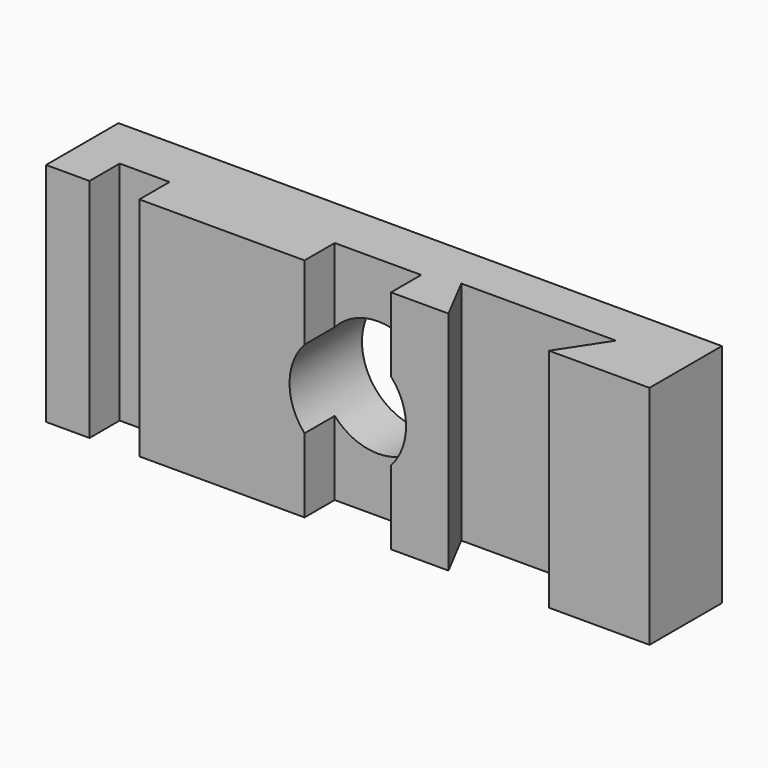
from build123d import *

# Parameters (mm, degrees)
F0_W     = 203.2
F0_H     = 76.2
F1_DEPTH = 30.48
F2_R     = 19.62516
F3_DEPTH = 30.481
F4_W     = 16.807922
F4_H     = 76.2
F4_W_2   = 29.126016
F5_DEPTH = 12.7
F7_DEPTH = 76.201


with BuildPart() as f1:
    # F0 (on Front) → F1 (new body)
    with BuildSketch(Plane.XZ):
        Rectangle(F0_W, F0_H)
    extrude(amount=F1_DEPTH)

    # F2 (on face) → F3 (cut, through all)
    with BuildSketch(Plane.XZ.offset(30.48)):
        Circle(F2_R)
    extrude(amount=-F3_DEPTH, mode=Mode.SUBTRACT)

    # F4 (on face) → F5 (cut)
    with BuildSketch(Plane.XZ.offset(30.48)):
        with Locations((-78.576129, 0)):
            Rectangle(F4_W, F4_H)
        Rectangle(F4_W_2, F4_H)
        Rectangle(F4_W_2, F4_H)
    extrude(amount=-F5_DEPTH, mode=Mode.SUBTRACT)

    # F6 (on face) → F7 (cut, through all)
    with BuildSketch(Plane(origin=(0, 0, -38.1), x_dir=(1, 0, 0), z_dir=(0, 0, -1))):
        Polygon((67.76917, 30.48), (33.899248, 30.48), (25.846235, 14.998903), (77.894919, 14.998903), align=None)
    extrude(amount=-F7_DEPTH, mode=Mode.SUBTRACT)


solid = f1.part
